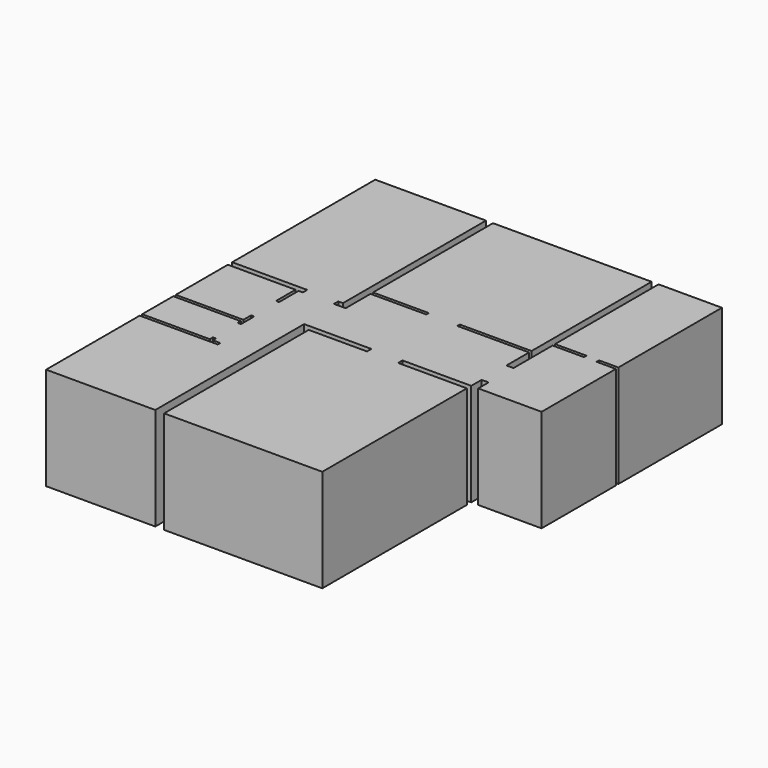
from build123d import *

# Parameters (mm, degrees)
F1_DEPTH = 2640


with BuildPart() as f1:
    # F0 (on Top) → F1 (new body)
    with BuildSketch(Plane.XY):
        Polygon((0, 3010), (0, 0), (2810, 0), (2810, 4786.147404), (4540, 4786.147404), (4540, 4646.147404), (3040, 4646.147404), (3040, -3.852596), (7110, -3.852596), (7110, 4646.147404), (5340, 4646.147404), (5340, 4786.147404), (7110, 4786.147404), (7110, 5120), (7290, 5120), (7290, 4786.147404), (8920, 4786.147404), (8920, 7176.147404), (8421.701431, 7176.147404), (8421.701431, 7256.147404), (8920, 7256.147404), (8920, 10586.147404), (7290, 10586.147404), (7290, 7256.147404), (8097.232819, 7256.147404), (8097.232819, 7176.147404), (7290, 7176.147404), (7290, 5920), (7110, 5920), (7110, 6646.147404), (5264.745522, 6646.147404), (5264.745522, 6726.147404), (7110, 6726.147404), (7110, 10586.147404), (3030, 10586.147404), (3030, 6726.147404), (4464.745522, 6726.147404), (4464.745522, 6646.147404), (3030, 6646.147404), (3030, 5846.147404), (2730, 5846.147404), (2730, 5986.147404), (2850, 5986.147404), (2850, 10586.147404), (0, 10586.147404), (0, 5986.147404), (1930, 5986.147404), (1930, 5846.147404), (1820, 5846.147404), (1820, 5220), (1740, 5220), (1740, 5846.147404), (0, 5846.147404), (0, 4170), (1740, 4170), (1740, 4420), (1820, 4420), (1820, 3990), (1740, 3990), (1740, 4090), (0, 4090), (0, 3090), (1740, 3090), (1740, 3190), (1820, 3190), (1820, 3090), (2010, 3090), (2010, 3010), align=None)
    extrude(amount=F1_DEPTH)


solid = f1.part
